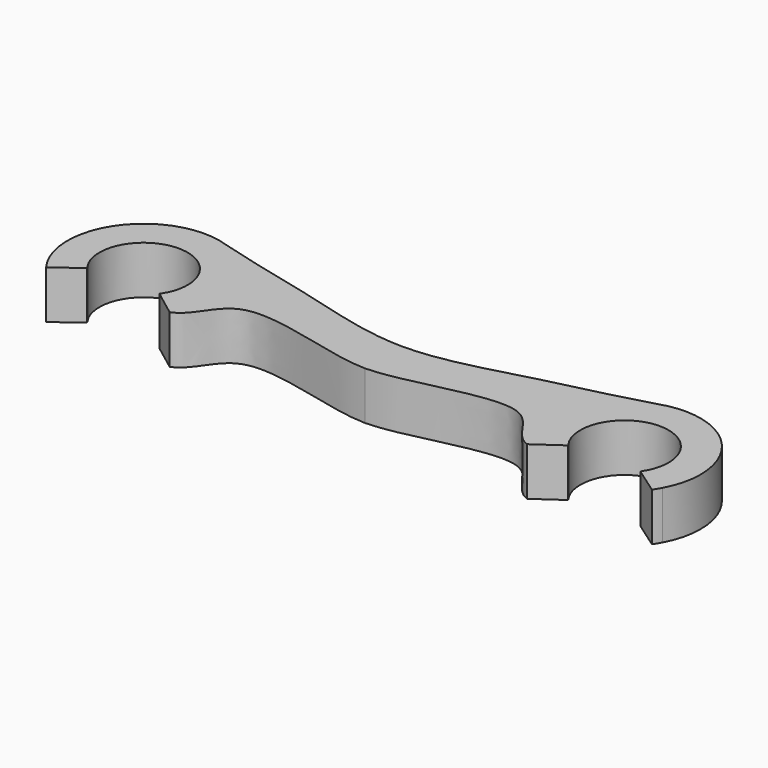
from build123d import *

# Parameters (mm, degrees)
F1_DEPTH = 3


with BuildPart() as f1:
    # F0 (on Top) → F1 (new body)
    with BuildSketch(Plane.XY):
        with BuildLine():
            add(Edge.make_bspline(
                [(-13.3958420632, 4.4709257782), (-10.7991840455, 3.7171882654), (-6.9842723238, 2.9579603473), (-2.3510343693, 1.4741958774), (0, 1.4687934619)],
                knots=[0, 0, 0, 0, 0.4979956947, 1, 1, 1, 1], degree=3))
            ThreePointArc((-13.3958420632, 4.4709257782), (-18.6521525019, 3.037150326), (-19.1034828696, -2.3924732681))
            Line((-19.1034828696, -2.3924732681), (-19.0708550594, -2.4415414883))
            Line((-19.0708550594, -2.4415414883), (-18.7935186727, -2.85862136))
            Line((-18.7935186727, -2.85862136), (-17.1962476526, -1.6549913137))
            Line((-17.1962476526, -1.6549913137), (-17.4685166421, -1.2119924042))
            ThreePointArc((-17.4685166421, -1.2119924042), (-15, 2.75), (-12.5314833579, -1.2119924042))
            Line((-12.5314833579, -1.2119924042), (-12.7473318782, -1.5773352))
            Line((-12.7473318782, -1.5773352), (-11.1494973771, -2.7813898596))
            add(Edge.make_bspline(
                [(-11.1494973771, -2.7813898596), (-10.0605914436, -2.3815719814), (-9.4588256207, 1.513805476), (-2.5098763641, -1.4474214809), (0, -1.4687934619)],
                knots=[0, 0, 0, 0, 0.3864790218, 1, 1, 1, 1], degree=3))
            add(Edge.make_bspline(
                [(11.1494973771, -2.7813898596), (10.0605914436, -2.3815719814), (9.4588256207, 1.513805476), (2.5098763641, -1.4474214809), (0, -1.4687934619)],
                knots=[0, 0, 0, 0, 0.3864790218, 1, 1, 1, 1], degree=3))
            Line((11.1494973771, -2.7813898596), (12.7878014657, -1.6342369869))
            Line((12.7878014657, -1.6342369869), (12.5314833579, -1.2119924042))
            ThreePointArc((12.5314833579, -1.2119924042), (15, 2.75), (17.4685166421, -1.2119924042))
            Line((17.4685166421, -1.2119924042), (17.2526681218, -1.5773352))
            Line((17.2526681218, -1.5773352), (18.8909722104, -2.7244880727))
            ThreePointArc((18.8909722104, -2.7244880727), (19.0447540648, -2.490474765), (19.1844792517, -2.2478063512))
            ThreePointArc((19.1844792517, -2.2478063512), (18.5985906795, 3.1004266032), (13.3958420632, 4.4709257782))
            add(Edge.make_bspline(
                [(13.3958420632, 4.4709257782), (10.7991840455, 3.7171882654), (6.9842723238, 2.9579603473), (2.3510343693, 1.4741958774), (0, 1.4687934619)],
                knots=[0, 0, 0, 0, 0.4979956947, 1, 1, 1, 1], degree=3))
        make_face()
    extrude(amount=F1_DEPTH)


solid = f1.part
